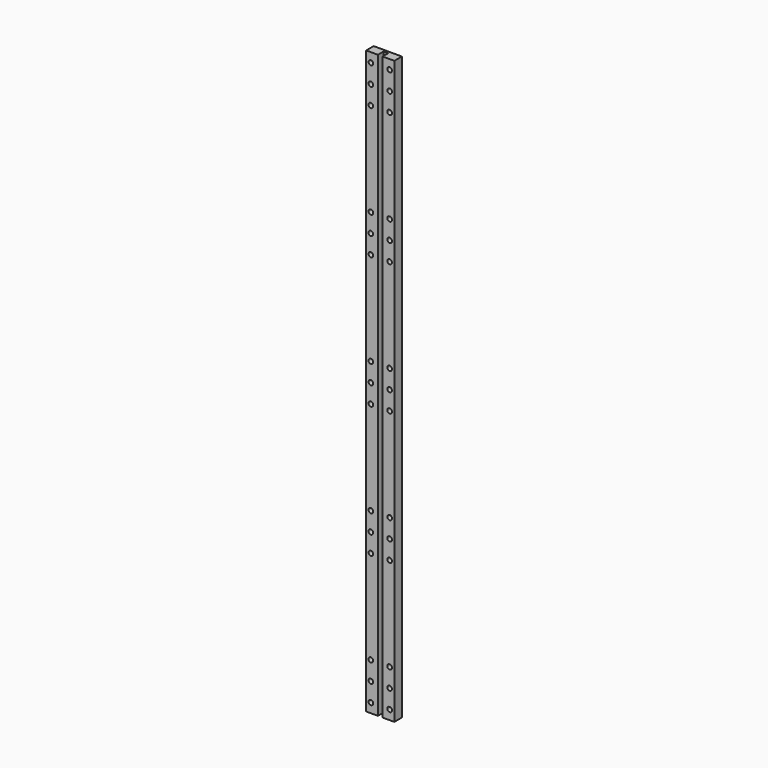
from build123d import *

# Parameters (mm, degrees)
F1_DEPTH = 496
F2_R     = 2
F3_DEPTH = 25


with BuildPart() as f1:
    # F0 (on Top) → F1 (new body)
    with BuildSketch(Plane.XY):
        Polygon((12, -4), (12, 4), (-12, 4), (-12, -4), (-2, -4), (-2, 2), (2, 2), (2, -4), align=None)
    extrude(amount=F1_DEPTH)

    # F2 (on face) → F3 (cut)
    with BuildSketch(Plane(origin=(0, 4, 0), x_dir=(-1, 0, 0), z_dir=(0, 1, 0))):
        with Locations((-8, 40)):
            Circle(F2_R)
        with Locations((-8, 24)):
            Circle(F2_R)
        with Locations((-8, 8)):
            Circle(F2_R)
        with Locations((-8, 120)):
            Circle(F2_R)
        with Locations((-8, 136)):
            Circle(F2_R)
        with Locations((-8, 152)):
            Circle(F2_R)
        with Locations((-8, 232)):
            Circle(F2_R)
        with Locations((-8, 248)):
            Circle(F2_R)
        with Locations((-8, 264)):
            Circle(F2_R)
        with Locations((-8, 344)):
            Circle(F2_R)
        with Locations((-8, 360)):
            Circle(F2_R)
        with Locations((-8, 376)):
            Circle(F2_R)
        with Locations((-8, 456)):
            Circle(F2_R)
        with Locations((-8, 472)):
            Circle(F2_R)
        with Locations((-8, 488)):
            Circle(F2_R)
        with Locations((8, 8)):
            Circle(F2_R)
        with Locations((8, 24)):
            Circle(F2_R)
        with Locations((8, 40)):
            Circle(F2_R)
        with Locations((8, 120)):
            Circle(F2_R)
        with Locations((8, 136)):
            Circle(F2_R)
        with Locations((8, 152)):
            Circle(F2_R)
        with Locations((8, 232)):
            Circle(F2_R)
        with Locations((8, 264)):
            Circle(F2_R)
        with Locations((8, 248)):
            Circle(F2_R)
        with Locations((8, 344)):
            Circle(F2_R)
        with Locations((8, 360)):
            Circle(F2_R)
        with Locations((8, 376)):
            Circle(F2_R)
        with Locations((8, 456)):
            Circle(F2_R)
        with Locations((8, 472)):
            Circle(F2_R)
        with Locations((8, 488)):
            Circle(F2_R)
    extrude(amount=-F3_DEPTH, mode=Mode.SUBTRACT)


solid = f1.part
